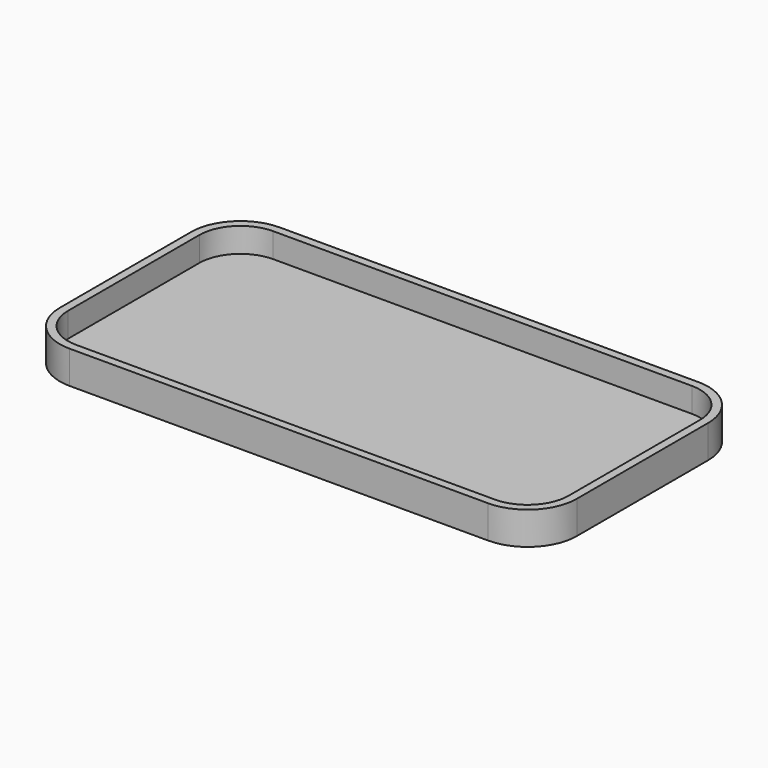
from build123d import *

# Parameters (mm, degrees)
F1_DEPTH = 1
F2_DEPTH = 4


with BuildPart() as f1:
    # F0 (on Top) → F1 (new body)
    with BuildSketch(Plane.XY):
        with BuildLine():
            ThreePointArc((0, 5), (1.464466, 1.464466), (5, 0))
            Line((5, 0), (56, 0))
            ThreePointArc((56, 0), (59.535534, 1.464466), (61, 5))
            Line((61, 5), (61, 25))
            ThreePointArc((61, 25), (59.535534, 28.535534), (56, 30))
            Line((56, 30), (5, 30))
            ThreePointArc((5, 30), (1.464466, 28.535534), (0, 25))
            Line((0, 25), (0, 5))
        make_face()
    extrude(amount=F1_DEPTH)

    # F0 (on Top) → F2 (join)
    with BuildSketch(Plane.XY):
        with BuildLine():
            ThreePointArc((56, -1), (60.242641, 0.757359), (62, 5))
            Line((62, 5), (62, 25))
            ThreePointArc((62, 25), (60.242641, 29.242641), (56, 31))
            Line((56, 31), (5, 31))
            ThreePointArc((5, 31), (0.757359, 29.242641), (-1, 25))
            Line((-1, 25), (-1, 5))
            ThreePointArc((-1, 5), (0.757359, 0.757359), (5, -1))
            Line((5, -1), (56, -1))
        make_face()
        with BuildLine():
            Line((56, 0), (5, 0))
            ThreePointArc((5, 0), (1.464466, 1.464466), (0, 5))
            Line((0, 5), (0, 25))
            ThreePointArc((0, 25), (1.464466, 28.535534), (5, 30))
            Line((5, 30), (56, 30))
            ThreePointArc((56, 30), (59.535534, 28.535534), (61, 25))
            Line((61, 25), (61, 5))
            ThreePointArc((61, 5), (59.535534, 1.464466), (56, 0))
        make_face(mode=Mode.SUBTRACT)
    extrude(amount=F2_DEPTH)


solid = f1.part
